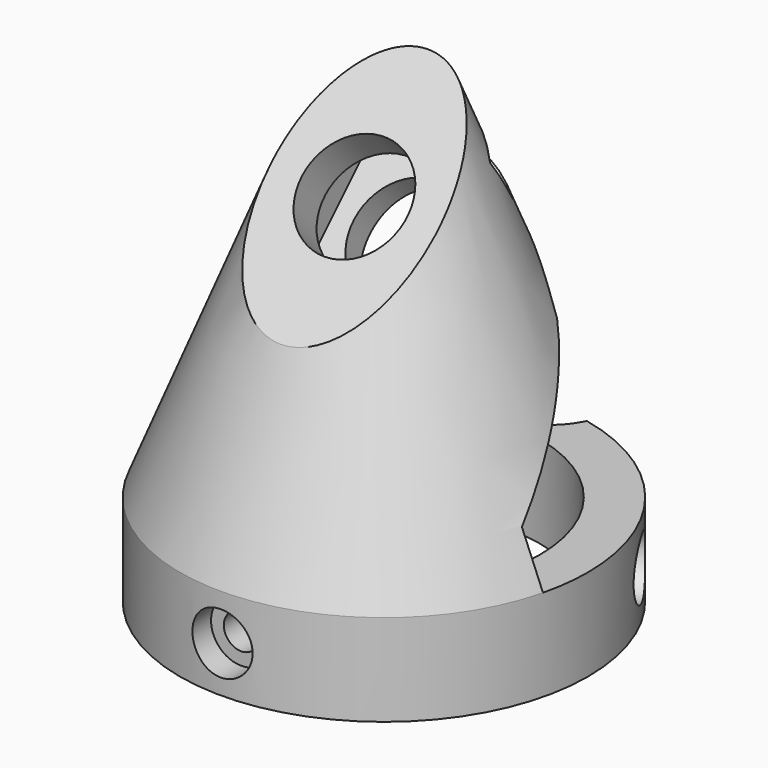
from build123d import *

# Parameters (mm, degrees)
POCKET002_DEPTH      = 20.001
POCKET002_DEPTH_BACK = -20.001
POCKET003_DEPTH      = 5
SKETCH004_R          = 5.2
POCKET004_DEPTH      = 26.045604
POCKET004_DEPTH_BACK = -21.981715
SKETCH007_R          = 15.2
SKETCH_R             = 20
SKETCH_R_2           = 15.3
PAD_DEPTH            = 9
SKETCH001_R          = 1.7
POCKET_DEPTH         = 134.561028
SKETCH002_R          = 2.95
POCKET001_DEPTH      = 2.5
SKETCH006_R          = 5.2
POCKET005_DEPTH      = 14.143136
POLARPATTERN_COUNT   = 3


with BuildPart() as body001:
    # Cone → Cone (revolve)
    with BuildSketch(Plane(origin=(0, 0, 9), x_dir=(1, 0, 0), z_dir=(0, -1, 0))):
        Polygon((0, 0), (20, 0), (0, 50), align=None)
    revolve(axis=Axis((0, 0, 9), (0, 0, 1)))

    # Sketch003 → Pocket002 (cut, two sides)
    with BuildSketch(Plane.YZ) as pocket002_sk:
        Polygon((22.25, 62.25), (-22.25, 17.75), (-27.75, 17.75), (-27.75, 67.75), (22.25, 67.75), align=None)
        Polygon((30.213203, 9), (-4.786797, 9), (-4.786797, 14), (30.213203, 49), align=None)
    extrude(amount=-POCKET002_DEPTH, mode=Mode.SUBTRACT)
    extrude(pocket002_sk.sketch, amount=-POCKET002_DEPTH_BACK, mode=Mode.SUBTRACT)

    # Sketch005 (on DatumPlane) → Pocket003 (cut)
    with BuildSketch(Plane(origin=(0, -0.79062, 33.552525), x_dir=(0, -0.707107, -0.707107), z_dir=(0, -0.707107, 0.707107))):
        Polygon((8.2, 0), (4.1, 7.101408), (-4.1, 7.101408), (-19.1, 7.101408), (-19.1, -7.101408), (-4.1, -7.101408), (4.1, -7.101408), align=None)
    extrude(amount=-POCKET003_DEPTH, mode=Mode.SUBTRACT)

    # Sketch004 (on DatumPlane) → Pocket004 (cut, two sides)
    with BuildSketch(Plane(origin=(0, -0.79062, 33.552525), x_dir=(0, -0.707107, -0.707107), z_dir=(0, -0.707107, 0.707107))) as pocket004_sk:
        Circle(SKETCH004_R)
    extrude(amount=-POCKET004_DEPTH, mode=Mode.SUBTRACT)
    extrude(pocket004_sk.sketch, amount=-POCKET004_DEPTH_BACK, mode=Mode.SUBTRACT)

    # SubtractivePipe: sweep along a path in Sketch008
    with BuildLine(Plane.YZ) as subtractivepipe_path:
        Line((0, 9), (28.284271, 37.284271))
    # Sketch007 (on Face1 of CopyPolarPattern) → SubtractivePipe (sweep, cut)
    with BuildSketch(Plane.XY.offset(9)):
        Circle(SKETCH007_R)
    sweep(path=subtractivepipe_path.line, mode=Mode.SUBTRACT)


with BuildPart() as body:
    # Sketch → Pad (new body)
    with BuildSketch(Plane.XY):
        Circle(SKETCH_R)
        Circle(SKETCH_R_2, mode=Mode.SUBTRACT)
    extrude(amount=PAD_DEPTH)

    # Sketch001 → Pocket (cut, through all)
    with BuildSketch(Plane.XZ):
        with Locations((0, 4.5)):
            Circle(SKETCH001_R)
    pocket = extrude(amount=POCKET_DEPTH, mode=Mode.SUBTRACT)

    # Sketch002 (on DatumPlane) → Pocket001 (cut)
    with BuildSketch(Plane.XZ.offset(20)):
        with Locations((0, 4.5)):
            Circle(SKETCH002_R)
    pocket001 = extrude(amount=-POCKET001_DEPTH, mode=Mode.SUBTRACT)

    # Sketch006 (on DatumPlane) → Pocket005 (cut, through all)
    with BuildSketch(Plane(origin=(0, 0, 0), x_dir=(1, 0, 0), z_dir=(0, -0.707107, 0.707107))):
        with Locations((0, 23.17)):
            Circle(SKETCH006_R)
    extrude(amount=-POCKET005_DEPTH, mode=Mode.SUBTRACT)

    # PolarPattern: Pocket, Pocket001 ×3 about axis
    polarpattern_axis = Axis((0, 0, 0), (0, 0, 1))
    for i in range(1, POLARPATTERN_COUNT):
        add(pocket.rotate(polarpattern_axis, i * 360 / POLARPATTERN_COUNT), mode=Mode.SUBTRACT)
        add(pocket001.rotate(polarpattern_axis, i * 360 / POLARPATTERN_COUNT), mode=Mode.SUBTRACT)

    # Boolean: union Body001
    add(body001.part)


solid = body.part
